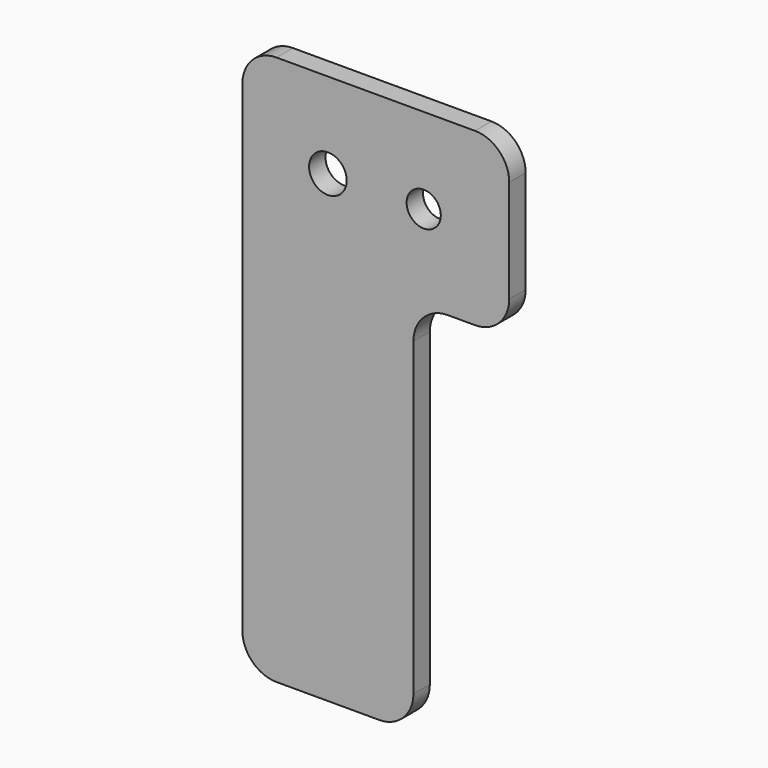
from build123d import *

# Parameters (mm, degrees)
F0_R     = 1.5
F1_DEPTH = 3
F3_R     = 2.75
F4_DEPTH = 381
F6_R     = 5
F7_R     = 2.5
F8_DEPTH = 25


with BuildPart() as f1:
    # F0 (on Front) → F1 (new body)
    with BuildSketch(Plane.XZ):
        with BuildLine():
            Line((12.5, -12.5), (12.5, 0))
            ThreePointArc((12.5, 0), (12.4899799325, -0.5004011242), (12.4599357944, -1))
            ThreePointArc((12.4599357944, -1), (0, -12.5), (-12.4599357944, -1))
            ThreePointArc((-12.4599357944, -1), (-12.4899799325, -0.5004011242), (-12.5, 0))
            Line((-12.5, 0), (-12.5, -67.8362422814))
            Line((-12.5, -67.8362422814), (12.5, -67.8362422814))
            Line((12.5, -67.8362422814), (12.5, -59.3175111059))
            Line((12.5, -59.3175111059), (12.5, -12.5))
        make_face()
        Polygon((12.5, 12.5), (12.5, 0), (12.5, -12.5), (26.5, -12.5), (26.5, 12.5), align=None)
        with BuildLine():
            ThreePointArc((12.4599357944, 1), (12.4899799325, 0.5004011242), (12.5, 0))
            Line((12.5, 0), (12.5, 12.5))
            Line((12.5, 12.5), (0, 12.5))
            ThreePointArc((0, 12.5), (8.4779124789, 9.1855865354), (12.4599357944, 1))
        make_face()
        with BuildLine():
            Line((12.4599357944, -1), (12.4599357944, 1))
            ThreePointArc((12.4599357944, 1), (8.4779124789, 9.1855865354), (0, 12.5))
            ThreePointArc((0, 12.5), (-8.4779124789, 9.1855865354), (-12.4599357944, 1))
            Line((-12.4599357944, 1), (-12.4599357944, -1))
            ThreePointArc((-12.4599357944, -1), (0, -12.5), (12.4599357944, -1))
        make_face()
        Circle(F0_R, mode=Mode.SUBTRACT)
        with BuildLine():
            ThreePointArc((-12.4599357944, 1), (-8.4779124789, 9.1855865354), (0, 12.5))
            Line((0, 12.5), (-12.5, 12.5))
            Line((-12.5, 12.5), (-12.5, 0))
            ThreePointArc((-12.5, 0), (-12.4899799325, 0.5004011242), (-12.4599357944, 1))
        make_face()
        with BuildLine():
            ThreePointArc((-12.5, 0), (-12.4899799325, -0.5004011242), (-12.4599357944, -1))
            Line((-12.4599357944, -1), (-12.4599357944, 1))
            ThreePointArc((-12.4599357944, 1), (-12.4899799325, 0.5004011242), (-12.5, 0))
        make_face()
        Circle(F0_R)
    extrude(amount=F1_DEPTH)

    # F3 (on face) → F4 (cut, symmetric)
    with BuildSketch(Plane.XZ.offset(3)):
        Circle(F3_R)
    extrude(amount=F4_DEPTH, both=True, mode=Mode.SUBTRACT)

    # F6
    f6_edges = [f1.edges().sort_by_distance(p)[0] for p in [
        (12.5, -1.5, -67.836242),
        (-12.5, -1.5, -67.836242),
        (-12.5, -1.5, 12.5),
        (12.5, -1.5, -12.5),
        (26.5, -1.5, -12.5),
        (26.5, -1.5, 12.5),
    ]]
    fillet(f6_edges, radius=F6_R)

    # F7 (on face) → F8 (cut)
    with BuildSketch(Plane.XZ.offset(3)):
        with Locations((14, 0)):
            Circle(F7_R)
        with BuildLine():
            Line((12.4599357944, -1), (12.4599357944, 1))
            ThreePointArc((12.4599357944, 1), (12.5, 0), (12.4599357944, -1))
        make_face(mode=Mode.SUBTRACT)
    extrude(amount=-F8_DEPTH, mode=Mode.SUBTRACT)


solid = f1.part
